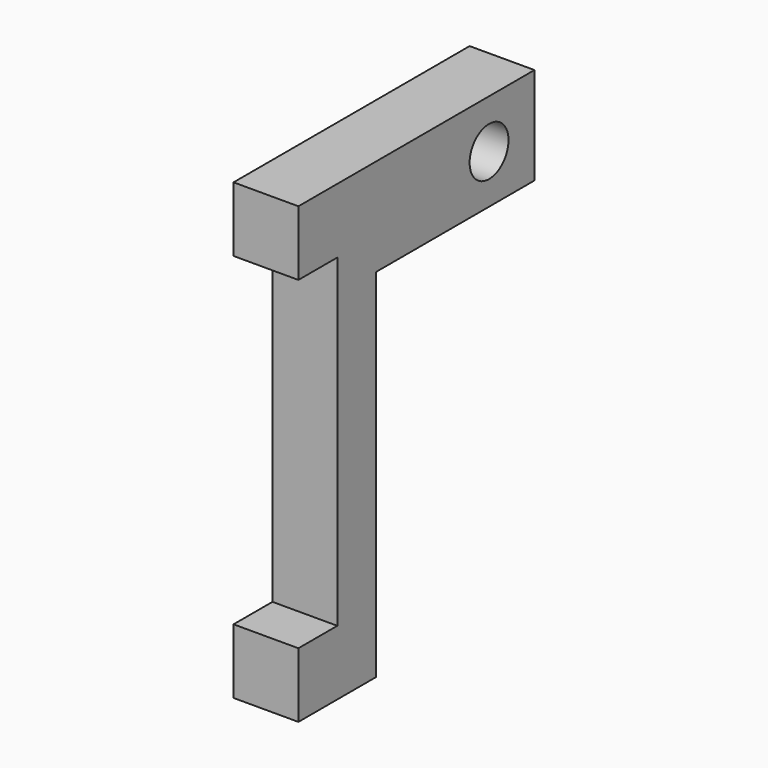
from build123d import *

# Parameters (mm, degrees)
EXTRUDE041_DEPTH = 2
SKETCH113_R      = 0.75
HOLE025_DEPTH    = 2
HOLE025_TIPS_R   = 0.75


with BuildPart() as part:
    # Sketch090 → Extrude041 (new body)
    with BuildSketch(Plane.YZ):
        Polygon((-128.000002, 5), (-130.000002, 5), (-130.300002, 5), (-133.300002, 5), (-133.300002, 3), (-131.800002, 3), (-131.800002, -7), (-133.300002, -7), (-133.300002, -9), (-130.300002, -9), (-130.300002, 2), (-130.000002, 2), (-128.000002, 2), (-127.700002, 2), (-124.200002, 2), (-124.200002, 5), (-127.700002, 5), align=None)
    extrude(amount=EXTRUDE041_DEPTH)

    # Sketch113 (on Face19 of Extrude041) → Hole025 (cut)
    with BuildSketch(Plane.YZ.offset(2)):
        with Locations((-125.949997, 3.5)):
            Circle(SKETCH113_R)
    extrude(amount=-HOLE025_DEPTH, mode=Mode.SUBTRACT)

    # Hole025 tips → Hole025 tip 1 section 0
    with BuildSketch(Plane.YZ, mode=Mode.PRIVATE) as hole025_tip_1_s0:
        with Locations((-125.949997, 3.5)):
            Circle(HOLE025_TIPS_R)
    loft([hole025_tip_1_s0.sketch, Vertex(-0.450645, -125.949997, 3.5)], mode=Mode.SUBTRACT)


solid = part.part
